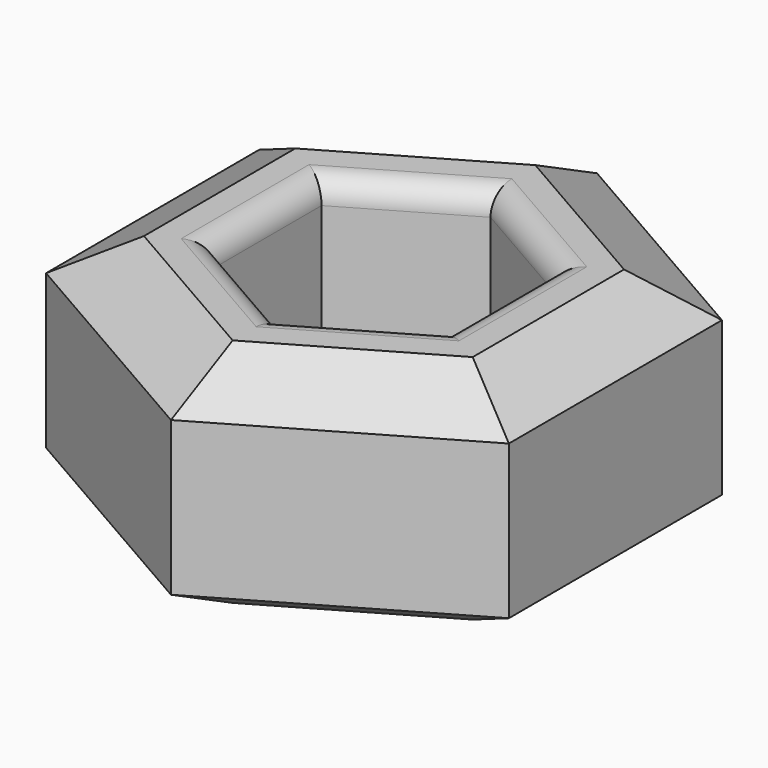
from build123d import *

# Parameters (mm, degrees)
F3_R = 5


with BuildPart() as f2:
    # F2: sweep along a path in F0
    with BuildLine(Plane.XY) as f2_path:
        Line((-49.9525964633, -28.9494635513), (-50.047269093, 28.7854857466))
        Line((-50.047269093, 28.7854857466), (-0.0946726297, 57.7349492979))
        Line((-0.0946726297, 57.7349492979), (49.9525964633, 28.9494635513))
        Line((49.9525964633, 28.9494635513), (50.047269093, -28.7854857466))
        Line((50.047269093, -28.7854857466), (0.0946726297, -57.7349492979))
        Line((0.0946726297, -57.7349492979), (-49.9525964633, -28.9494635513))
    # F1 (on Front) → F2 (sweep)
    with BuildSketch(Plane.XZ):
        Polygon((-25, -25), (-25, 0), (-25, 25), (-35.5145582736, 25), (-50, 16.6368263199), (-50, 0), (-50, -16.6368263199), (-35.5145582736, -25), align=None)
    sweep(path=f2_path.line, transition=Transition.RIGHT)

    # F3
    f3_edges = [f2.edges().sort_by_distance(p)[0] for p in [
        (12.464464, 21.671074, 25),
        (24.999933, 0.040994, 25),
        (12.535469, -21.63008, 25),
        (-12.464464, -21.671074, 25),
        (-24.999933, -0.040994, 25),
        (-12.535469, 21.63008, 25),
        (-12.535469, 21.63008, -25),
        (-24.999933, -0.040994, -25),
        (-12.464464, -21.671074, -25),
        (12.535469, -21.63008, -25),
        (24.999933, 0.040994, -25),
        (12.464464, 21.671074, -25),
    ]]
    fillet(f3_edges, radius=F3_R)


solid = f2.part
